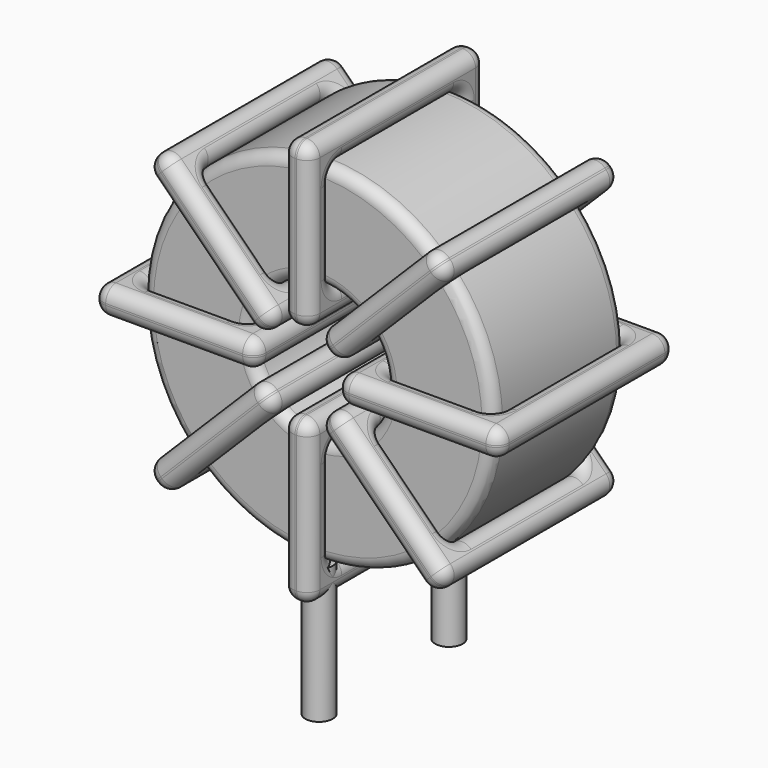
from build123d import *

# Parameters (mm, degrees)
SKETCH001_R       = 0.6
PAD001_DEPTH      = 1.2
PAD001_DEPTH_BACK = 4.7
SKETCH_R          = 7.69
SKETCH_R_2        = 2.963333
PAD_DEPTH         = 3.625
FILLET_R          = 0.5
SKETCH003_W       = 7.126667
SKETCH003_H       = 9.65
SKETCH003_W_2     = 4.726667
SKETCH003_H_2     = 7.25
PAD002_DEPTH      = 0.6
FILLET001_R       = 0.564
SKETCH004_W       = 7.126667
SKETCH004_H       = 9.65
SKETCH004_W_2     = 4.726667
SKETCH004_H_2     = 7.25
PAD003_DEPTH      = 0.6
FILLET002_R       = 0.564
SKETCH005_W       = 7.126667
SKETCH005_H       = 9.65
SKETCH005_W_2     = 4.726667
SKETCH005_H_2     = 7.25
PAD004_DEPTH      = 0.6
FILLET003_R       = 0.564
SKETCH006_W       = 7.126667
SKETCH006_H       = 9.65
SKETCH006_W_2     = 4.726667
SKETCH006_H_2     = 7.25
PAD005_DEPTH      = 0.6
FILLET004_R       = 0.564


with BuildPart() as pad001:
    # Sketch001 → Pad001 (new body, two sides)
    with BuildSketch(Plane.XY.offset(1.7)) as pad001_sk:
        Circle(SKETCH001_R)
        with Locations((0, -7.11)):
            Circle(SKETCH001_R)
    extrude(amount=PAD001_DEPTH)
    extrude(pad001_sk.sketch, amount=-PAD001_DEPTH_BACK)


with BuildPart() as fillet_body:
    # Sketch → Pad (new body, symmetric)
    with BuildSketch(Plane.XZ.offset(3.555)):
        with Locations((0, 10.59)):
            Circle(SKETCH_R)
        with Locations((0, 10.59)):
            Circle(SKETCH_R_2, mode=Mode.SUBTRACT)
    extrude(amount=PAD_DEPTH, both=True)

    # Fillet
    fillet_edges = [fillet_body.edges().sort_by_distance(p)[0] for p in [
        (-2.963333, -7.18, 10.59),
        (-7.69, -7.18, 10.59),
        (-7.69, 0.07, 10.59),
    ]]
    fillet(fillet_edges, radius=FILLET_R)


with BuildPart() as fillet001:
    # Sketch003 → Pad002 (new body, symmetric)
    with BuildSketch(Plane(origin=(0, 1.27, 10.59), x_dir=(1, 0, 0), z_dir=(0, 0, -1))):
        with Locations((-5.326666, 4.825)):
            Rectangle(SKETCH003_W, SKETCH003_H)
        with Locations((-5.326666, 4.825)):
            Rectangle(SKETCH003_W_2, SKETCH003_H_2, mode=Mode.SUBTRACT)
        with Locations((5.326666, 4.825)):
            Rectangle(SKETCH003_W, SKETCH003_H)
        with Locations((5.326666, 4.825)):
            Rectangle(SKETCH003_W_2, SKETCH003_H_2, mode=Mode.SUBTRACT)
    extrude(amount=PAD002_DEPTH, both=True)

    # Fillet001
    fillet001_edges = [fillet001.edges().sort_by_distance(p)[0] for p in [
        (-2.963333, -7.18, 10.59),
        (-2.963333, 0.07, 10.59),
        (-2.963333, -3.555, 11.19),
        (-2.963333, -3.555, 9.99),
        (-8.89, -8.38, 10.59),
        (-1.763333, -8.38, 10.59),
        (-5.326667, -8.38, 11.19),
        (-5.326667, -8.38, 9.99),
        (-1.763333, 1.27, 10.59),
        (-1.763333, -3.555, 11.19),
        (-1.763333, -3.555, 9.99),
        (2.963333, -7.18, 10.59),
        (7.69, -7.18, 10.59),
        (5.326667, -7.18, 11.19),
        (5.326667, -7.18, 9.99),
        (7.69, 0.07, 10.59),
        (7.69, -3.555, 11.19),
        (7.69, -3.555, 9.99),
        (1.763333, -8.38, 10.59),
        (8.89, -8.38, 10.59),
        (5.326667, -8.38, 11.19),
        (5.326667, -8.38, 9.99),
        (8.89, 1.27, 10.59),
        (8.89, -3.555, 11.19),
        (8.89, -3.555, 9.99),
        (-7.69, -7.18, 10.59),
        (-5.326667, -7.18, 11.19),
        (-5.326667, -7.18, 9.99),
        (2.963333, 0.07, 10.59),
        (2.963333, -3.555, 11.19),
        (2.963333, -3.555, 9.99),
        (5.326667, 0.07, 11.19),
        (5.326667, 0.07, 9.99),
        (1.763333, 1.27, 10.59),
        (5.326667, 1.27, 11.19),
        (5.326667, 1.27, 9.99),
        (1.763333, -3.555, 11.19),
        (1.763333, -3.555, 9.99),
        (-8.89, 1.27, 10.59),
        (-5.326667, 1.27, 11.19),
        (-5.326667, 1.27, 9.99),
        (-8.89, -3.555, 11.19),
        (-8.89, -3.555, 9.99),
        (-7.69, 0.07, 10.59),
        (-7.69, -3.555, 11.19),
        (-7.69, -3.555, 9.99),
        (-5.326667, 0.07, 11.19),
        (-5.326667, 0.07, 9.99),
    ]]
    fillet(fillet001_edges, radius=FILLET001_R)


with BuildPart() as fillet002:
    # Sketch004 → Pad003 (new body, symmetric)
    with BuildSketch(Plane(origin=(0, 1.27, 10.59), x_dir=(0.707108, 0, 0.707106), z_dir=(0.707106, 0, -0.707108))):
        with Locations((-5.326666, 4.825)):
            Rectangle(SKETCH004_W, SKETCH004_H)
        with Locations((-5.326666, 4.825)):
            Rectangle(SKETCH004_W_2, SKETCH004_H_2, mode=Mode.SUBTRACT)
        with Locations((5.326666, 4.825)):
            Rectangle(SKETCH004_W, SKETCH004_H)
        with Locations((5.326666, 4.825)):
            Rectangle(SKETCH004_W_2, SKETCH004_H_2, mode=Mode.SUBTRACT)
    extrude(amount=PAD003_DEPTH, both=True)

    # Fillet002
    fillet002_edges = [fillet002.edges().sort_by_distance(p)[0] for p in [
        (-5.437657, -7.18, 5.152355),
        (-2.095396, 0.07, 8.494609),
        (-4.19079, 0.07, 7.247747),
        (-3.342263, 0.07, 6.399218),
        (-6.286187, -8.38, 4.303828),
        (-6.286187, 1.27, 4.303828),
        (-6.71045, -3.555, 4.728093),
        (-5.861923, -3.555, 3.879563),
        (-1.246866, -8.38, 9.343136),
        (-4.19079, 1.27, 7.247747),
        (-3.342263, 1.27, 6.399218),
        (2.095396, -7.18, 12.685391),
        (5.437657, -7.18, 16.027645),
        (3.342263, -7.18, 14.780782),
        (4.19079, -7.18, 13.932253),
        (5.437657, 0.07, 16.027645),
        (5.013394, -3.555, 16.451909),
        (5.861921, -3.555, 15.60338),
        (1.246866, -8.38, 11.836864),
        (6.286187, -8.38, 16.876172),
        (3.342263, -8.38, 14.780782),
        (4.19079, -8.38, 13.932253),
        (6.286187, 1.27, 16.876172),
        (5.861923, -3.555, 17.300437),
        (6.71045, -3.555, 16.451907),
        (-5.437657, 0.07, 5.152355),
        (-5.861921, -3.555, 5.57662),
        (-5.013394, -3.555, 4.728091),
        (2.095396, 0.07, 12.685391),
        (1.671132, -3.555, 13.109655),
        (2.519659, -3.555, 12.261126),
        (3.342263, 0.07, 14.780782),
        (4.19079, 0.07, 13.932253),
        (1.246866, 1.27, 11.836864),
        (3.342263, 1.27, 14.780782),
        (4.19079, 1.27, 13.932253),
        (0.822603, -3.555, 12.261128),
        (1.67113, -3.555, 11.412599),
        (-1.246866, 1.27, 9.343136),
        (-1.67113, -3.555, 9.767401),
        (-0.822603, -3.555, 8.918872),
        (-4.19079, -8.38, 7.247747),
        (-3.342263, -8.38, 6.399218),
        (-2.095396, -7.18, 8.494609),
        (-4.19079, -7.18, 7.247747),
        (-3.342263, -7.18, 6.399218),
        (-2.519659, -3.555, 8.918874),
        (-1.671132, -3.555, 8.070345),
    ]]
    fillet(fillet002_edges, radius=FILLET002_R)


with BuildPart() as fillet003:
    # Sketch005 → Pad004 (new body, symmetric)
    with BuildSketch(Plane(origin=(0, 1.27, 10.59), x_dir=(0.707108, 0, -0.707106), z_dir=(-0.707106, 0, -0.707108))):
        with Locations((-5.326666, 4.825)):
            Rectangle(SKETCH005_W, SKETCH005_H)
        with Locations((-5.326666, 4.825)):
            Rectangle(SKETCH005_W_2, SKETCH005_H_2, mode=Mode.SUBTRACT)
        with Locations((5.326666, 4.825)):
            Rectangle(SKETCH005_W, SKETCH005_H)
        with Locations((5.326666, 4.825)):
            Rectangle(SKETCH005_W_2, SKETCH005_H_2, mode=Mode.SUBTRACT)
    extrude(amount=PAD004_DEPTH, both=True)

    # Fillet003
    fillet003_edges = [fillet003.edges().sort_by_distance(p)[0] for p in [
        (-5.437657, -7.18, 16.027645),
        (-2.095396, 0.07, 12.685391),
        (-3.342263, 0.07, 14.780782),
        (-4.19079, 0.07, 13.932253),
        (-6.286187, -8.38, 16.876172),
        (-1.246866, -8.38, 11.836864),
        (-3.342263, -8.38, 14.780782),
        (-4.19079, -8.38, 13.932253),
        (-1.246866, 1.27, 11.836864),
        (-0.822603, -3.555, 12.261128),
        (-1.67113, -3.555, 11.412599),
        (2.095396, -7.18, 8.494609),
        (5.437657, -7.18, 5.152355),
        (4.19079, -7.18, 7.247747),
        (3.342263, -7.18, 6.399218),
        (5.437657, 0.07, 5.152355),
        (5.861921, -3.555, 5.57662),
        (5.013394, -3.555, 4.728091),
        (1.246866, -8.38, 9.343136),
        (6.286187, -8.38, 4.303828),
        (4.19079, -8.38, 7.247747),
        (3.342263, -8.38, 6.399218),
        (6.286187, 1.27, 4.303828),
        (6.71045, -3.555, 4.728093),
        (5.861923, -3.555, 3.879563),
        (-5.437657, 0.07, 16.027645),
        (-5.013394, -3.555, 16.451909),
        (-5.861921, -3.555, 15.60338),
        (2.095396, 0.07, 8.494609),
        (2.519659, -3.555, 8.918874),
        (1.671132, -3.555, 8.070345),
        (4.19079, 0.07, 7.247747),
        (3.342263, 0.07, 6.399218),
        (1.246866, 1.27, 9.343136),
        (4.19079, 1.27, 7.247747),
        (3.342263, 1.27, 6.399218),
        (1.67113, -3.555, 9.767401),
        (0.822603, -3.555, 8.918872),
        (-6.286187, 1.27, 16.876172),
        (-3.342263, 1.27, 14.780782),
        (-4.19079, 1.27, 13.932253),
        (-5.861923, -3.555, 17.300437),
        (-6.71045, -3.555, 16.451907),
        (-2.095396, -7.18, 12.685391),
        (-3.342263, -7.18, 14.780782),
        (-4.19079, -7.18, 13.932253),
        (-1.671132, -3.555, 13.109655),
        (-2.519659, -3.555, 12.261126),
    ]]
    fillet(fillet003_edges, radius=FILLET003_R)


with BuildPart() as fillet004:
    # Sketch006 → Pad005 (new body, symmetric)
    with BuildSketch(Plane(origin=(0, 1.27, 10.59), x_dir=(0, 0, 1), z_dir=(1, 0, 0))):
        with Locations((-5.326666, 4.825)):
            Rectangle(SKETCH006_W, SKETCH006_H)
        with Locations((-5.326666, 4.825)):
            Rectangle(SKETCH006_W_2, SKETCH006_H_2, mode=Mode.SUBTRACT)
        with Locations((5.326666, 4.825)):
            Rectangle(SKETCH006_W, SKETCH006_H)
        with Locations((5.326666, 4.825)):
            Rectangle(SKETCH006_W_2, SKETCH006_H_2, mode=Mode.SUBTRACT)
    extrude(amount=PAD005_DEPTH, both=True)

    # Fillet004
    fillet004_edges = [fillet004.edges().sort_by_distance(p)[0] for p in [
        (0, -7.18, 7.626667),
        (0, 0.07, 7.626667),
        (-0.6, -3.555, 7.626667),
        (0.6, -3.555, 7.626667),
        (0, -8.38, 1.7),
        (0, -8.38, 8.826667),
        (-0.6, -8.38, 5.263333),
        (0.6, -8.38, 5.263333),
        (0, 1.27, 8.826667),
        (-0.6, -3.555, 8.826667),
        (0.6, -3.555, 8.826667),
        (0, -7.18, 13.553333),
        (0, -7.18, 18.28),
        (-0.6, -7.18, 15.916667),
        (0.6, -7.18, 15.916667),
        (0, 0.07, 18.28),
        (-0.6, -3.555, 18.28),
        (0.6, -3.555, 18.28),
        (0, -8.38, 12.353333),
        (0, -8.38, 19.48),
        (-0.6, -8.38, 15.916667),
        (0.6, -8.38, 15.916667),
        (0, 1.27, 19.48),
        (-0.6, -3.555, 19.48),
        (0.6, -3.555, 19.48),
        (0, -7.18, 2.9),
        (-0.6, -7.18, 5.263333),
        (0.6, -7.18, 5.263333),
        (0, 0.07, 13.553333),
        (-0.6, -3.555, 13.553333),
        (0.6, -3.555, 13.553333),
        (-0.6, 0.07, 15.916667),
        (0.6, 0.07, 15.916667),
        (0, 1.27, 12.353333),
        (-0.6, 1.27, 15.916667),
        (0.6, 1.27, 15.916667),
        (-0.6, -3.555, 12.353333),
        (0.6, -3.555, 12.353333),
        (0, 1.27, 1.7),
        (-0.6, 1.27, 5.263333),
        (0.6, 1.27, 5.263333),
        (-0.6, -3.555, 1.7),
        (0.6, -3.555, 1.7),
        (0, 0.07, 2.9),
        (-0.6, -3.555, 2.9),
        (0.6, -3.555, 2.9),
        (-0.6, 0.07, 5.263333),
        (0.6, 0.07, 5.263333),
    ]]
    fillet(fillet004_edges, radius=FILLET004_R)


solid = Compound([pad001.part, fillet_body.part, fillet001.part, fillet002.part, fillet003.part, fillet004.part])
